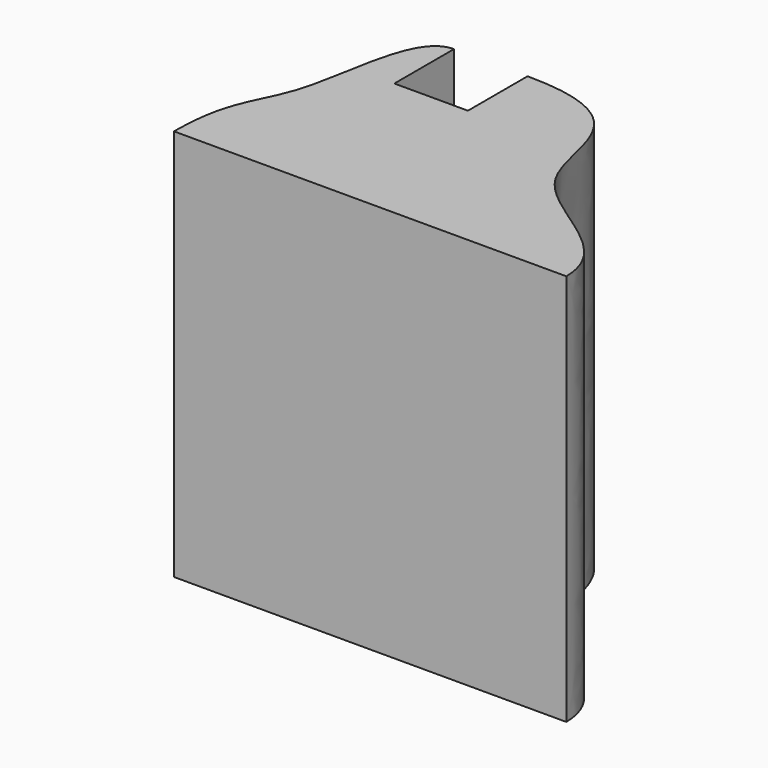
from build123d import *

# Parameters (mm, degrees)
F1_DEPTH = 80


with BuildPart() as f1:
    # F0 (on Top) → F1 (new body)
    with BuildSketch(Plane.XY):
        with BuildLine():
            Line((-32.1052614199, -25), (0, -25))
            Line((0, -25), (47.8947385801, -25))
            add(Edge.make_bspline(
                [(0, 25), (25.659063831, 25), (14.1547425884, -5.6128009824), (47.8947385801, -12.5), (47.8947385801, -25)],
                knots=[0, 0, 0, 0, 0.5085421527, 1, 1, 1, 1], degree=3))
            Line((0, 25), (0, 9.7970971838))
            Line((0, 9.7970971838), (-15, 9.7970971838))
            Line((-15, 9.7970971838), (-15, 25))
            add(Edge.make_bspline(
                [(-15, 25), (-22.4866718054, 25), (-23.1735226144, -6.7585684546), (-32.1052614199, -10.730153881), (-32.1052614199, -25)],
                knots=[0, 0, 0, 0, 0.505288374, 1, 1, 1, 1], degree=3))
        make_face()
    extrude(amount=F1_DEPTH)


solid = f1.part
